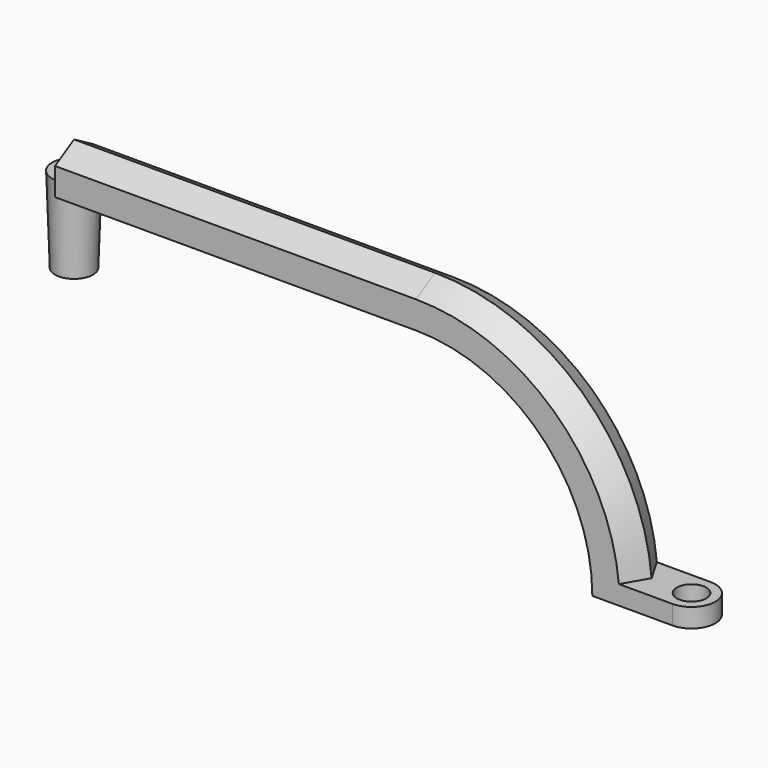
from build123d import *

# Parameters (mm, degrees)
SKETCH_R  = 1.55
PAD_DEPTH = 2


with BuildPart() as part:
    # Sketch → Pad (new body)
    with BuildSketch(Plane.XY):
        with BuildLine():
            Line((0, 2.5), (-7, 2.5))
            Line((-7, 2.5), (-7, -2.5))
            Line((0, -2.5), (-7, -2.5))
            ThreePointArc((0, -2.5), (2.5, 0), (0, 2.5))
        make_face()
        Circle(SKETCH_R, mode=Mode.SUBTRACT)
    extrude(amount=PAD_DEPTH)

    # AdditivePipe: sweep along a path in Sketch001
    with BuildLine(Plane.XZ) as additivepipe_path:
        ThreePointArc((-7, 0), (-12.857864, 14.142136), (-27, 20))
        Line((-27, 20), (-65, 20))
    # Sketch002 → AdditivePipe (sweep)
    with BuildSketch(Plane.XY):
        Polygon((-8.443376, -2.5), (-5.556624, -2.5), (-4.113249, 0), (-5.556624, 2.5), (-8.443376, 2.5), (-9.886751, 0), align=None)
    sweep(path=additivepipe_path.line)

    # Sketch003 (on Face21 of AdditivePipe) → Revolution (revolve)
    with BuildSketch(Plane(origin=(-65, 0, 0), x_dir=(0, -1, 0), z_dir=(-1, 0, 0))):
        Polygon((0, 20), (0, 11), (2, 11), (2.3, 20), align=None)
    revolve(axis=Axis((-65, 0, 0), (0, 0, 1)))


solid = part.part
